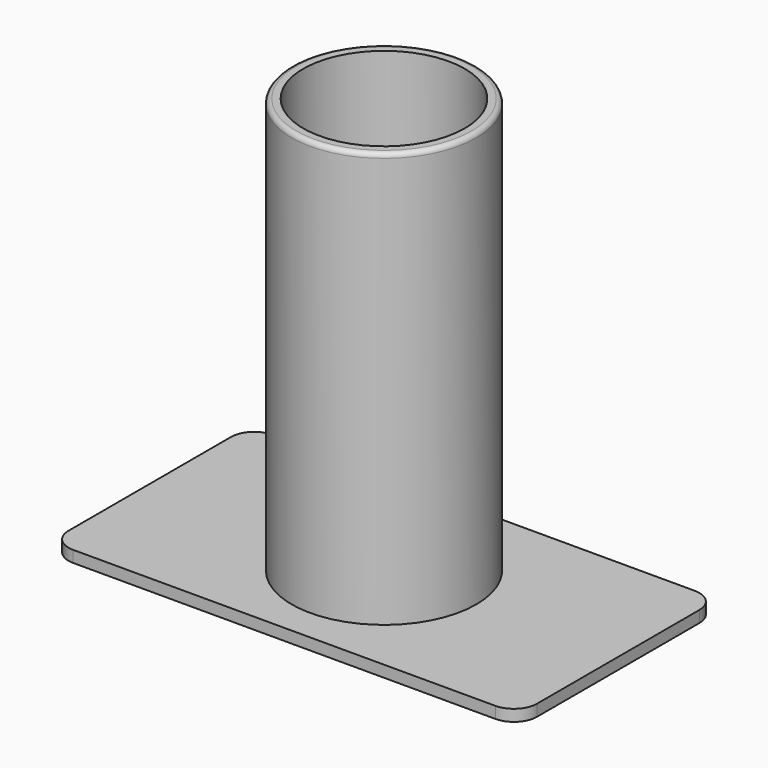
from build123d import *

# Parameters (mm, degrees)
F0_W     = 203
F0_H     = 108
F1_DEPTH = 5
F2_R     = 40
F3_DEPTH = 180
F4_R     = 35
F5_DEPTH = 180
F6_R     = 10
F7_R     = 2


with BuildPart() as f1:
    # F0 (on Top) → F1 (new body)
    with BuildSketch(Plane.XY):
        Rectangle(F0_W, F0_H)
    extrude(amount=F1_DEPTH)

    # F2 (on face) → F3 (join)
    with BuildSketch(Plane.XY.offset(5)):
        Circle(F2_R)
    extrude(amount=F3_DEPTH)

    # F4 (on face) → F5 (cut)
    with BuildSketch(Plane.XY.offset(185)):
        Circle(F4_R)
    extrude(amount=-F5_DEPTH, mode=Mode.SUBTRACT)

    # F6
    f6_edges = [f1.edges().sort_by_distance(p)[0] for p in [
        (101.5, -54, 2.5),
        (101.5, 54, 2.5),
        (-101.5, 54, 2.5),
        (-101.5, -54, 2.5),
    ]]
    fillet(f6_edges, radius=F6_R)

    # F7
    f7_edges = [f1.edges().sort_by_distance(p)[0] for p in [
        (-40, 0, 185),
    ]]
    fillet(f7_edges, radius=F7_R)


solid = f1.part
